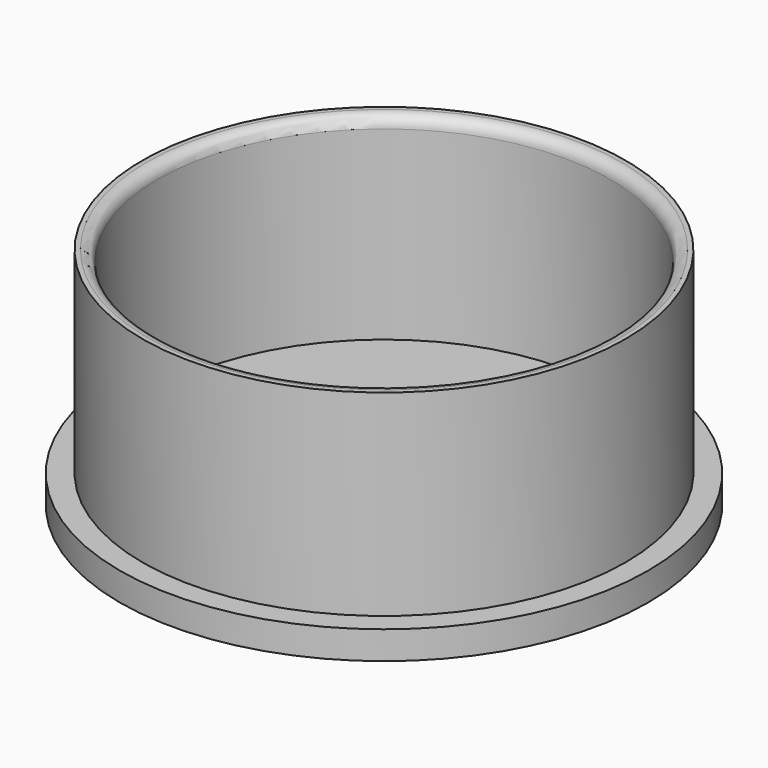
from build123d import *

# Parameters (mm, degrees)
CYLINDER002_R     = 20.1
CYLINDER002_DEPTH = 30
CYLINDER001_R     = 21.5
CYLINDER001_DEPTH = 20
FILLET_R          = 1
CYLINDER_R        = 23.5
CYLINDER_DEPTH    = 2.5


with BuildPart() as cylinder002:
    # Cylinder002 → Cylinder002 (new body)
    with BuildSketch(Plane.XY.offset(2.5)):
        Circle(CYLINDER002_R)
    extrude(amount=CYLINDER002_DEPTH)


with BuildPart() as fillet_body:
    # Cylinder001 → Cylinder001 (new body)
    with BuildSketch(Plane.XY):
        Circle(CYLINDER001_R)
    extrude(amount=CYLINDER001_DEPTH)

    # Cut: cut Cylinder002
    add(cylinder002.part, mode=Mode.SUBTRACT)

    # Fillet
    fillet_edges = [fillet_body.edges().sort_by_distance(p)[0] for p in [
        (-20.1, 0, 20),
    ]]
    fillet(fillet_edges, radius=FILLET_R)


with BuildPart() as fusion:
    # Cylinder → Cylinder (new body)
    with BuildSketch(Plane.XY):
        Circle(CYLINDER_R)
    extrude(amount=CYLINDER_DEPTH)

    # Fusion: union Fillet body
    add(fillet_body.part)


solid = fusion.part
